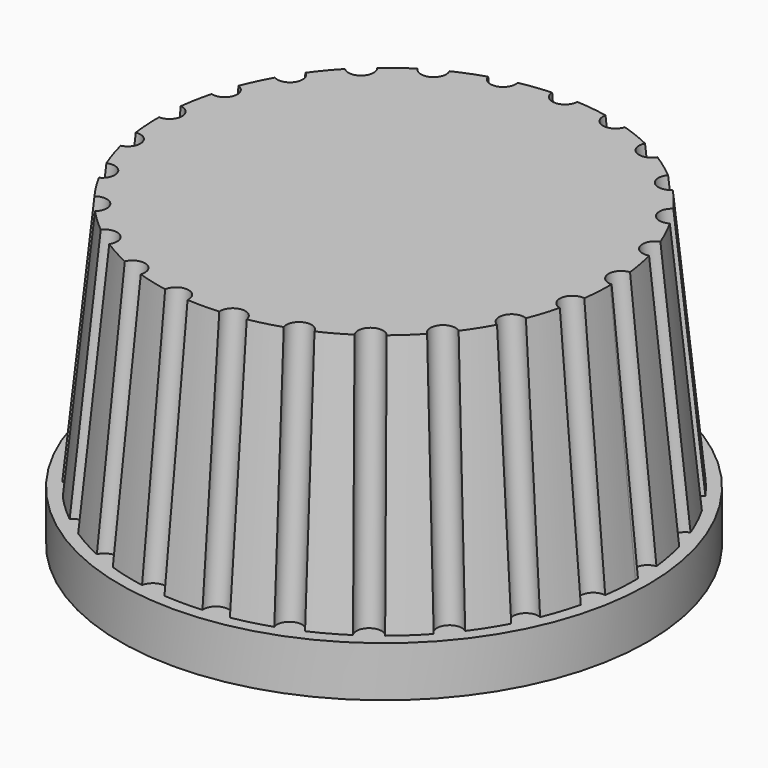
from build123d import *

# Parameters (mm, degrees)
F4_R     = 10.5
F5_DEPTH = 2
F7_D     = 6.5
F7_DEPTH = 10
F7_TIP   = 1.9527970118
F9_DEPTH = 8


with BuildPart() as f3:
    # F0 (on Top) → F3 section 0
    with BuildSketch(Plane.XY):
        with BuildLine():
            ThreePointArc((9.904255291, -1.3804807604), (9.976035107, -0.6918985076), (10, 0))
            ThreePointArc((10, 0), (9.9997943472, 0.0641327767), (9.9991773974, 0.1282629156))
            ThreePointArc((9.9991773974, 0.1282629156), (9.4812539201, 0.5965099355), (9.936406503, 1.125977712))
            ThreePointArc((9.936406503, 1.125977712), (9.8228725073, 1.8738131459), (9.6531371622, 2.610927599))
            ThreePointArc((9.6531371622, 2.610927599), (9.0350369048, 2.9356614466), (9.3442167508, 3.5616868637))
            ThreePointArc((9.3442167508, 3.5616868637), (9.0482705247, 4.2577929157), (8.7005548174, 4.929538099))
            ThreePointArc((8.7005548174, 4.929538099), (8.0211152923, 5.0903545523), (8.1648954945, 5.7736021307))
            ThreePointArc((8.1648954945, 5.7736021307), (7.7051324278, 6.3742398975), (7.201284615, 6.9384075906))
            ThreePointArc((7.201284615, 6.9384075906), (6.5031975063, 6.9252019605), (6.4725438259, 7.6227407421))
            ThreePointArc((6.4725438259, 7.6227407421), (5.8778525229, 8.0901699437), (5.2495312158, 8.5113114157))
            ThreePointArc((5.2495312158, 8.5113114157), (4.576659904, 8.3249134604), (4.3734984244, 8.9929145182))
            ThreePointArc((4.3734984244, 8.9929145182), (3.6812455268, 9.2977648589), (2.9679304638, 9.5494182421))
            ThreePointArc((2.9679304638, 9.5494182421), (2.3625539281, 9.2015400307), (1.9996500323, 9.7980304015))
            ThreePointArc((1.9996500323, 9.7980304015), (1.2533323356, 9.9211470131), (0.4998437256, 9.9875))
            ThreePointArc((0.4998437256, 9.9875), (0, 9.5), (-0.4998437256, 9.9875))
            ThreePointArc((-0.4998437256, 9.9875), (-1.2533323356, 9.9211470131), (-1.9996500323, 9.7980304015))
            ThreePointArc((-1.9996500323, 9.7980304015), (-2.3625539281, 9.2015400307), (-2.9679304638, 9.5494182421))
            ThreePointArc((-2.9679304638, 9.5494182421), (-3.6812455268, 9.2977648589), (-4.3734984244, 8.9929145182))
            ThreePointArc((-4.3734984244, 8.9929145182), (-4.576659904, 8.3249134604), (-5.2495312158, 8.5113114157))
            ThreePointArc((-5.2495312158, 8.5113114157), (-5.8778525229, 8.0901699437), (-6.4725438259, 7.6227407421))
            ThreePointArc((-6.4725438259, 7.6227407421), (-6.5031975063, 6.9252019605), (-7.201284615, 6.9384075906))
            ThreePointArc((-7.201284615, 6.9384075906), (-7.7051324278, 6.3742398975), (-8.1648954945, 5.7736021307))
            ThreePointArc((-8.1648954945, 5.7736021307), (-8.0211152923, 5.0903545523), (-8.7005548174, 4.929538099))
            ThreePointArc((-8.7005548174, 4.929538099), (-9.0482705247, 4.2577929157), (-9.3442167508, 3.5616868637))
            ThreePointArc((-9.3442167508, 3.5616868637), (-9.0350369048, 2.9356614466), (-9.6531371622, 2.610927599))
            ThreePointArc((-9.6531371622, 2.610927599), (-9.8228725073, 1.8738131459), (-9.936406503, 1.125977712))
            ThreePointArc((-9.936406503, 1.125977712), (-9.4812539201, 0.5965099355), (-9.9991773974, 0.1282629156))
            ThreePointArc((-9.9991773974, 0.1282629156), (-9.9802672843, -0.6279051953), (-9.904255291, -1.3804807604))
            ThreePointArc((-9.904255291, -1.3804807604), (-9.3317288819, -1.7801224886), (-9.7169325423, -2.3624609984))
            ThreePointArc((-9.7169325423, -2.3624609984), (-9.510565163, -3.0901699437), (-9.2497832939, -3.8001985496))
            ThreePointArc((-9.2497832939, -3.8001985496), (-8.5958569984, -4.0449032699), (-8.8241370791, -4.7047427994))
            ThreePointArc((-8.8241370791, -4.7047427994), (-8.443279255, -5.3582679498), (-8.014113394, -5.9811358877))
            ThreePointArc((-8.014113394, -5.9811358877), (-7.3198758064, -6.0555279026), (-7.3768886304, -6.7514083075))
            ThreePointArc((-7.3768886304, -6.7514083075), (-6.8454710593, -7.2896862742), (-6.2748872758, -7.786256461))
            ThreePointArc((-6.2748872758, -7.786256461), (-5.5839598968, -7.6856614466), (-5.4661231387, -8.3738580017))
            ThreePointArc((-5.4661231387, -8.3738580017), (-4.817536741, -8.7630668004), (-4.1413869126, -9.1021379049))
            ThreePointArc((-4.1413869126, -9.1021379049), (-3.4971832505, -8.8328766159), (-3.2119010273, -9.4701474007))
            ThreePointArc((-3.2119010273, -9.4701474007), (-2.4868988716, -9.6858316113), (-1.7476679787, -9.846098549))
            ThreePointArc((-1.7476679787, -9.846098549), (-1.1906657189, -9.4250896625), (-0.7558633617, -9.9713926098))
            ThreePointArc((-0.7558633617, -9.9713926098), (0, -10), (0.7558633617, -9.9713926098))
            ThreePointArc((0.7558633617, -9.9713926098), (1.1906657189, -9.4250896625), (1.7476679787, -9.846098549))
            ThreePointArc((1.7476679787, -9.846098549), (2.4868988716, -9.6858316113), (3.2119010273, -9.4701474007))
            ThreePointArc((3.2119010273, -9.4701474007), (3.4971832505, -8.8328766159), (4.1413869126, -9.1021379049))
            ThreePointArc((4.1413869126, -9.1021379049), (4.817536741, -8.7630668004), (5.4661231387, -8.3738580017))
            ThreePointArc((5.4661231387, -8.3738580017), (5.5839598968, -7.6856614466), (6.2748872758, -7.786256461))
            ThreePointArc((6.2748872758, -7.786256461), (6.8454710593, -7.2896862742), (7.3768886304, -6.7514083075))
            ThreePointArc((7.3768886304, -6.7514083075), (7.3198758064, -6.0555279026), (8.014113394, -5.9811358877))
            ThreePointArc((8.014113394, -5.9811358877), (8.443279255, -5.3582679498), (8.8241370791, -4.7047427994))
            ThreePointArc((8.8241370791, -4.7047427994), (8.5958569984, -4.0449032699), (9.2497832939, -3.8001985496))
            ThreePointArc((9.2497832939, -3.8001985496), (9.510565163, -3.0901699437), (9.7169325423, -2.3624609984))
            ThreePointArc((9.7169325423, -2.3624609984), (9.3317288819, -1.7801224886), (9.904255291, -1.3804807604))
        make_face()
    # F2 (on offset) → F3 section 1
    with BuildSketch(Plane.XY.offset(10)):
        with BuildLine():
            ThreePointArc((8.9205968823, -1.1928752086), (8.9801272803, -0.5977575007), (9, 0))
            ThreePointArc((9, 0), (8.9999405544, 0.0327111054), (8.9997622186, 0.0654217787))
            ThreePointArc((8.9997622186, 0.0654217787), (8.4832271916, 0.533719416), (8.9369959285, 1.0630633917))
            ThreePointArc((8.9369959285, 1.0630633917), (8.8405852566, 1.6864318313), (8.7007484043, 2.3015162839))
            ThreePointArc((8.7007484043, 2.3015162839), (8.0839803885, 2.6266444522), (8.3918506524, 3.2522058094))
            ThreePointArc((8.3918506524, 3.2522058094), (8.1434434722, 3.8320136241), (7.8550345687, 4.3929980566))
            ThreePointArc((7.8550345687, 4.3929980566), (7.1767873668, 4.5545277573), (7.3194145369, 5.2370001754))
            ThreePointArc((7.3194145369, 5.2370001754), (6.934619185, 5.7368159077), (6.5157600223, 6.208451605))
            ThreePointArc((6.5157600223, 6.208451605), (5.8186504004, 6.1962333331), (5.787072687, 6.89273456))
            ThreePointArc((5.787072687, 6.89273456), (5.2900672706, 7.2811529494), (4.7670763104, 7.633805306))
            ThreePointArc((4.7670763104, 7.633805306), (4.0949062299, 7.4486067804), (3.8911077769, 8.1153730825))
            ThreePointArc((3.8911077769, 8.1153730825), (3.3131209742, 8.367988373), (2.7188596619, 8.5794989445))
            ThreePointArc((2.7188596619, 8.5794989445), (2.1138640409, 8.2329568696), (1.7506502547, 8.828092868))
            ThreePointArc((1.7506502547, 8.828092868), (1.1279991021, 8.9290323118), (0.4998070615, 8.9861111111))
            ThreePointArc((0.4998070615, 8.9861111111), (0, 8.5), (-0.4998070615, 8.9861111111))
            ThreePointArc((-0.4998070615, 8.9861111111), (-1.1279991021, 8.9290323118), (-1.7506502547, 8.828092868))
            ThreePointArc((-1.7506502547, 8.828092868), (-2.1138640409, 8.2329568696), (-2.7188596619, 8.5794989445))
            ThreePointArc((-2.7188596619, 8.5794989445), (-3.3131209742, 8.367988373), (-3.8911077769, 8.1153730825))
            ThreePointArc((-3.8911077769, 8.1153730825), (-4.0949062299, 7.4486067804), (-4.7670763104, 7.633805306))
            ThreePointArc((-4.7670763104, 7.633805306), (-5.2900672706, 7.2811529494), (-5.787072687, 6.89273456))
            ThreePointArc((-5.787072687, 6.89273456), (-5.8186504004, 6.1962333331), (-6.5157600223, 6.208451605))
            ThreePointArc((-6.5157600223, 6.208451605), (-6.934619185, 5.7368159077), (-7.3194145369, 5.2370001754))
            ThreePointArc((-7.3194145369, 5.2370001754), (-7.1767873668, 4.5545277573), (-7.8550345687, 4.3929980566))
            ThreePointArc((-7.8550345687, 4.3929980566), (-8.1434434722, 3.8320136241), (-8.3918506524, 3.2522058094))
            ThreePointArc((-8.3918506524, 3.2522058094), (-8.0839803885, 2.6266444522), (-8.7007484043, 2.3015162839))
            ThreePointArc((-8.7007484043, 2.3015162839), (-8.8405852566, 1.6864318313), (-8.9369959285, 1.0630633917))
            ThreePointArc((-8.9369959285, 1.0630633917), (-8.4832271916, 0.533719416), (-8.9997622186, 0.0654217787))
            ThreePointArc((-8.9997622186, 0.0654217787), (-8.9822405559, -0.5651146758), (-8.9205968823, -1.1928752086))
            ThreePointArc((-8.9205968823, -1.1928752086), (-8.3494416312, -1.592741174), (-8.7332878738, -2.1747834174))
            ThreePointArc((-8.7332878738, -2.1747834174), (-8.5595086467, -2.7811529494), (-8.3436839264, -3.3738610725))
            ThreePointArc((-8.3436839264, -3.3738610725), (-7.691029946, -3.6191239783), (-7.9180689332, -4.2783389731))
            ThreePointArc((-7.9180689332, -4.2783389731), (-7.5989513295, -4.8224411548), (-7.2425066234, -5.342854837))
            ThreePointArc((-7.2425066234, -5.342854837), (-6.5493625636, -5.4181039129), (-6.6053286009, -6.1130707565))
            ThreePointArc((-6.6053286009, -6.1130707565), (-6.1609239534, -6.5607176468), (-5.6862559933, -6.9761373825))
            ThreePointArc((-5.6862559933, -6.9761373825), (-4.9961746445, -6.8766444522), (-4.8775511799, -7.563695822))
            ThreePointArc((-4.8775511799, -7.563695822), (-4.3357830669, -7.8867601204), (-3.7727169865, -8.1710835597))
            ThreePointArc((-3.7727169865, -8.1710835597), (-3.1290586978, -7.9031001301), (-2.8432992799, -8.5390660616))
            ThreePointArc((-2.8432992799, -8.5390660616), (-2.2382089845, -8.7172484502), (-1.6221242963, -8.8526105058))
            ThreePointArc((-1.6221242963, -8.8526105058), (-1.0653324853, -8.4329749612), (-0.6303924291, -8.9778953762))
            ThreePointArc((-0.6303924291, -8.9778953762), (0, -9), (0.6303924291, -8.9778953762))
            ThreePointArc((0.6303924291, -8.9778953762), (1.0653324853, -8.4329749612), (1.6221242963, -8.8526105058))
            ThreePointArc((1.6221242963, -8.8526105058), (2.2382089845, -8.7172484502), (2.8432992799, -8.5390660616))
            ThreePointArc((2.8432992799, -8.5390660616), (3.1290586978, -7.9031001301), (3.7727169865, -8.1710835597))
            ThreePointArc((3.7727169865, -8.1710835597), (4.3357830669, -7.8867601204), (4.8775511799, -7.563695822))
            ThreePointArc((4.8775511799, -7.563695822), (4.9961746445, -6.8766444522), (5.6862559933, -6.9761373825))
            ThreePointArc((5.6862559933, -6.9761373825), (6.1609239534, -6.5607176468), (6.6053286009, -6.1130707565))
            ThreePointArc((6.6053286009, -6.1130707565), (6.5493625636, -5.4181039129), (7.2425066234, -5.342854837))
            ThreePointArc((7.2425066234, -5.342854837), (7.5989513295, -4.8224411548), (7.9180689332, -4.2783389731))
            ThreePointArc((7.9180689332, -4.2783389731), (7.691029946, -3.6191239783), (8.3436839264, -3.3738610725))
            ThreePointArc((8.3436839264, -3.3738610725), (8.5595086467, -2.7811529494), (8.7332878738, -2.1747834174))
            ThreePointArc((8.7332878738, -2.1747834174), (8.3494416312, -1.592741174), (8.9205968823, -1.1928752086))
        make_face()
    loft()

    # F4 (on Top) → F5 (join)
    with BuildSketch(Plane.XY):
        Circle(F4_R)
    extrude(amount=-F5_DEPTH)

    # F7
    with Locations(Plane(origin=(0, 0, -2), x_dir=(1, 0, 0), z_dir=(0, 0, -1))):
        with Locations((0, 0)):
            Hole(F7_D / 2, depth=F7_DEPTH)
            with Locations((0, 0, -(F7_DEPTH + F7_TIP / 2))):  # 118° drill point
                Cone(0, F7_D / 2, F7_TIP, mode=Mode.SUBTRACT)

    # F8 (on Top) → F9 (join)
    with BuildSketch(Plane.XY):
        with BuildLine():
            ThreePointArc((2.5617376915, 2), (0, 3.25), (-2.5617376915, 2))
            Line((-2.5617376915, 2), (2.5617376915, 2))
        make_face()
    extrude(amount=F9_DEPTH)


solid = f3.part
